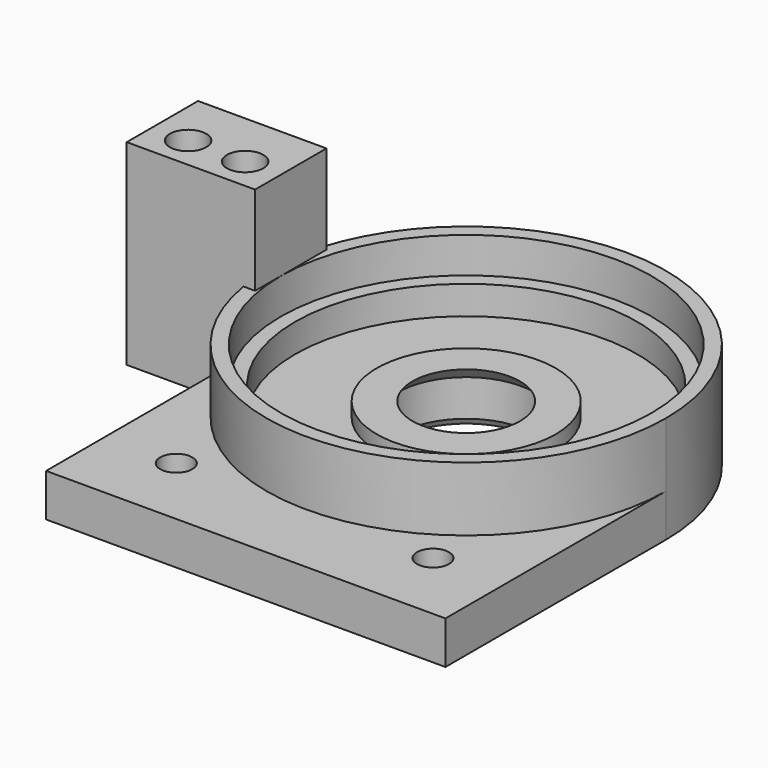
from build123d import *

# Parameters (mm, degrees)
SKETCH040_R   = 28
SKETCH040_R_2 = 9.55
PAD025_DEPTH  = 6
SKETCH038_R   = 28
SKETCH038_R_2 = 26
PAD023_DEPTH  = 15
SKETCH039_R   = 2.25
PAD024_DEPTH  = 6
SKETCH091_R   = 28
SKETCH091_R_2 = 24
PAD056_DEPTH  = 10
SKETCH098_W   = 18
SKETCH098_H   = 12.5
SKETCH098_R   = 2.55
PAD060_DEPTH  = 27.5


with BuildPart() as part:
    # Sketch040 → Pad025 (new body)
    with BuildSketch(Plane.XY):
        Circle(SKETCH040_R)
        Circle(SKETCH040_R_2, mode=Mode.SUBTRACT)
    extrude(amount=PAD025_DEPTH)

    # Sketch038 → Pad023 (join)
    with BuildSketch(Plane.XY):
        Circle(SKETCH038_R)
        Circle(SKETCH038_R_2, mode=Mode.SUBTRACT)
    extrude(amount=PAD023_DEPTH)

    # Sketch039 → Pad024 (join)
    with BuildSketch(Plane.XY):
        with BuildLine():
            ThreePointArc((-28, 0), (0, -28), (28, 0))
            Line((28, -38.6375), (28, 0))
            Line((-28, -38.6375), (28, -38.6375))
            Line((-28, 0), (-28, -38.6375))
        make_face()
        with Locations((-18, -28.31875)):
            Circle(SKETCH039_R, mode=Mode.SUBTRACT)
        with Locations((18, -28.31875)):
            Circle(SKETCH039_R, mode=Mode.SUBTRACT)
    extrude(amount=PAD024_DEPTH)

    # Sketch041 → Groove (revolve, cut)
    with BuildSketch(Plane.YZ):
        Polygon((9.55, 0.866025), (10.05, 0), (9.55, 0), align=None)
    revolve(axis=Axis((0, 0, 0), (0, 0, 1)), mode=Mode.SUBTRACT)

    # Sketch065 → Revolution (revolve)
    with BuildSketch(Plane.XZ):
        Polygon((9.55, 6), (7.55, 8), (12.55, 8), (12.55, 6), align=None)
    revolve(axis=Axis((0, 0, 0), (0, 0, 1)))

    # Sketch091 → Pad056 (join)
    with BuildSketch(Plane.XY):
        Circle(SKETCH091_R)
        Circle(SKETCH091_R_2, mode=Mode.SUBTRACT)
    extrude(amount=PAD056_DEPTH)

    # Sketch098 → Pad060 (join)
    with BuildSketch(Plane.XY):
        with Locations((-35, 1.75)):
            Rectangle(SKETCH098_W, SKETCH098_H)
        with Locations((-39, 0)):
            Circle(SKETCH098_R, mode=Mode.SUBTRACT)
        with Locations((-31, 0)):
            Circle(SKETCH098_R, mode=Mode.SUBTRACT)
    extrude(amount=PAD060_DEPTH)


solid = part.part
